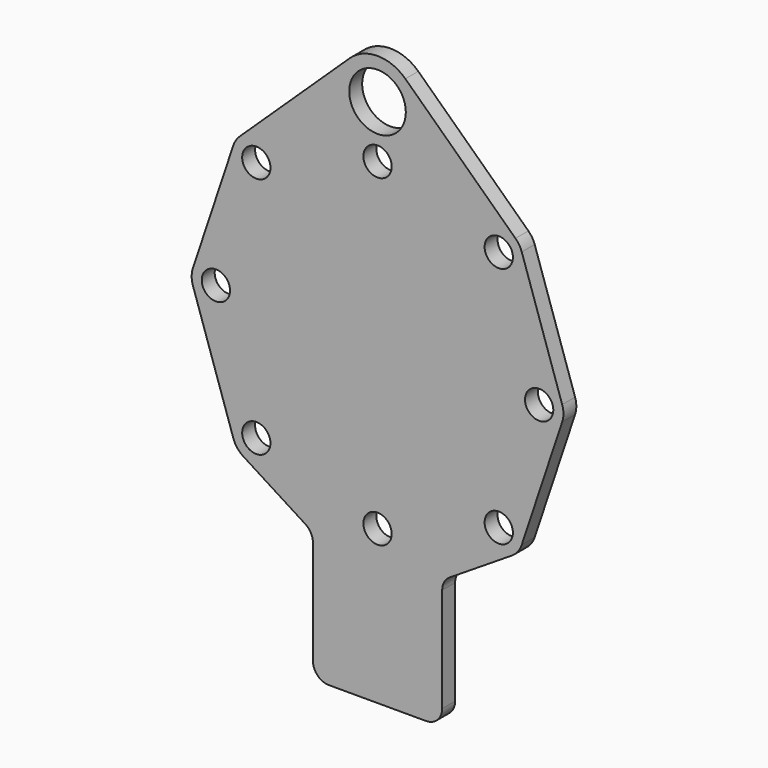
from build123d import *

# Parameters (mm, degrees)
F0_R     = 1.75
F0_R_2   = 3.5
F1_DEPTH = 2


with BuildPart() as f1:
    # F0 (on Front) → F1 (new body)
    with BuildSketch(Plane.XZ):
        with BuildLine():
            Line((8.927711, -22.410767), (16.608433, -17.532379))
            ThreePointArc((16.608433, -17.532379), (17.363816, -16.847261), (17.84605, -15.948683))
            Line((17.84605, -15.948683), (22.84605, -0.948683))
            ThreePointArc((22.84605, -0.948683), (23, 0), (22.84605, 0.948683))
            Line((22.84605, 0.948683), (17.84605, 15.948683))
            ThreePointArc((17.84605, 15.948683), (17.531795, 16.609352), (17.066972, 17.174311))
            Line((17.066972, 17.174311), (3.444953, 30.123852))
            ThreePointArc((3.444953, 30.123852), (0, 31.5), (-3.444953, 30.123852))
            Line((-3.444953, 30.123852), (-17.066972, 17.174311))
            ThreePointArc((-17.066972, 17.174311), (-17.531795, 16.609352), (-17.84605, 15.948683))
            Line((-17.84605, 15.948683), (-22.84605, 0.948683))
            ThreePointArc((-22.84605, 0.948683), (-23, 0), (-22.84605, -0.948683))
            Line((-22.84605, -0.948683), (-17.84605, -15.948683))
            ThreePointArc((-17.84605, -15.948683), (-17.363816, -16.847261), (-16.608433, -17.532379))
            Line((-16.608433, -17.532379), (-8.927711, -22.410767))
            ThreePointArc((-8.927711, -22.410767), (-8.247205, -23.135842), (-8, -24.09902))
            Line((-8, -24.09902), (-8, -37))
            ThreePointArc((-8, -37), (-7.414214, -38.414214), (-6, -39))
            Line((-6, -39), (6, -39))
            ThreePointArc((6, -39), (7.414214, -38.414214), (8, -37))
            Line((8, -37), (8, -24.09902))
            ThreePointArc((8, -24.09902), (8.247205, -23.135842), (8.927711, -22.410767))
        make_face()
        with Locations((-15, -15)):
            Circle(F0_R, mode=Mode.SUBTRACT)
        with Locations((0, -20)):
            Circle(F0_R, mode=Mode.SUBTRACT)
        with Locations((15, -15)):
            Circle(F0_R, mode=Mode.SUBTRACT)
        with Locations((-20, 0)):
            Circle(F0_R, mode=Mode.SUBTRACT)
        with Locations((-15, 15)):
            Circle(F0_R, mode=Mode.SUBTRACT)
        with Locations((20, 0)):
            Circle(F0_R, mode=Mode.SUBTRACT)
        with Locations((0, 20)):
            Circle(F0_R, mode=Mode.SUBTRACT)
        with Locations((0, 26.5)):
            Circle(F0_R_2, mode=Mode.SUBTRACT)
        with Locations((15, 15)):
            Circle(F0_R, mode=Mode.SUBTRACT)
    extrude(amount=F1_DEPTH)


solid = f1.part
